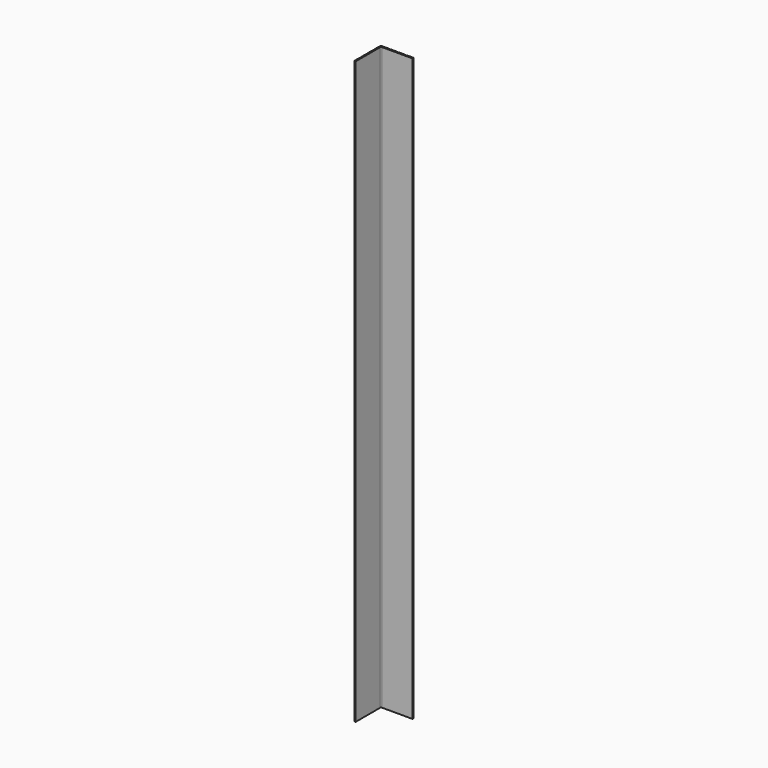
from build123d import *

# Parameters (mm, degrees)
F1_DEPTH = 632
F2_R     = 0.2


with BuildPart() as f1:
    # F0 (on Top) → F1 (new body)
    with BuildSketch(Plane.XY):
        with BuildLine():
            Line((0, 7.5), (0, 0))
            Line((0, 0), (1.5, 0))
            Line((1.5, 0), (1.5, 33.5))
            ThreePointArc((1.5, 33.5), (1.57612, 33.882683), (1.792893, 34.207107))
            ThreePointArc((1.792893, 34.207107), (2.117317, 34.42388), (2.5, 34.5))
            Line((2.5, 34.5), (36, 34.5))
            Line((36, 34.5), (36, 36))
            Line((36, 36), (28.5, 36))
            Line((28.5, 36), (28.5, 35.75))
            Line((28.5, 35.75), (26.5, 35.75))
            Line((26.5, 35.75), (26.5, 36))
            Line((26.5, 36), (20, 36))
            Line((20, 36), (20, 35.75))
            Line((20, 35.75), (18, 35.75))
            Line((18, 35.75), (18, 36))
            Line((18, 36), (11.5, 36))
            Line((11.5, 36), (11.5, 35.75))
            Line((11.5, 35.75), (9.5, 35.75))
            Line((9.5, 35.75), (9.5, 36))
            Line((9.5, 36), (2, 36))
            ThreePointArc((2, 36), (1.234633, 35.847759), (0.585786, 35.414214))
            ThreePointArc((0.585786, 35.414214), (0.152241, 34.765367), (0, 34))
            Line((0, 34), (0, 26.5))
            Line((0, 26.5), (0.25, 26.5))
            Line((0.25, 26.5), (0.25, 24.5))
            Line((0.25, 24.5), (0, 24.5))
            Line((0, 24.5), (0, 18))
            Line((0, 18), (0.25, 18))
            Line((0.25, 18), (0.25, 16))
            Line((0.25, 16), (0, 16))
            Line((0, 16), (0, 9.5))
            Line((0, 9.5), (0.25, 9.5))
            Line((0.25, 9.5), (0.25, 7.5))
            Line((0.25, 7.5), (0, 7.5))
        make_face()
    extrude(amount=F1_DEPTH)

    # F2
    f2_edges = [f1.edges().sort_by_distance(p)[0] for p in [
        (0, 16, 316),
        (0, 18, 316),
        (0, 9.5, 316),
        (0, 7.5, 316),
        (0, 26.5, 316),
        (0, 24.5, 316),
        (9.5, 36, 316),
        (11.5, 36, 316),
        (18, 36, 316),
        (20, 36, 316),
        (26.5, 36, 316),
        (28.5, 36, 316),
        (36, 36, 316),
        (36, 34.5, 316),
        (0, 0, 316),
        (1.5, 0, 316),
    ]]
    fillet(f2_edges, radius=F2_R)


solid = f1.part
